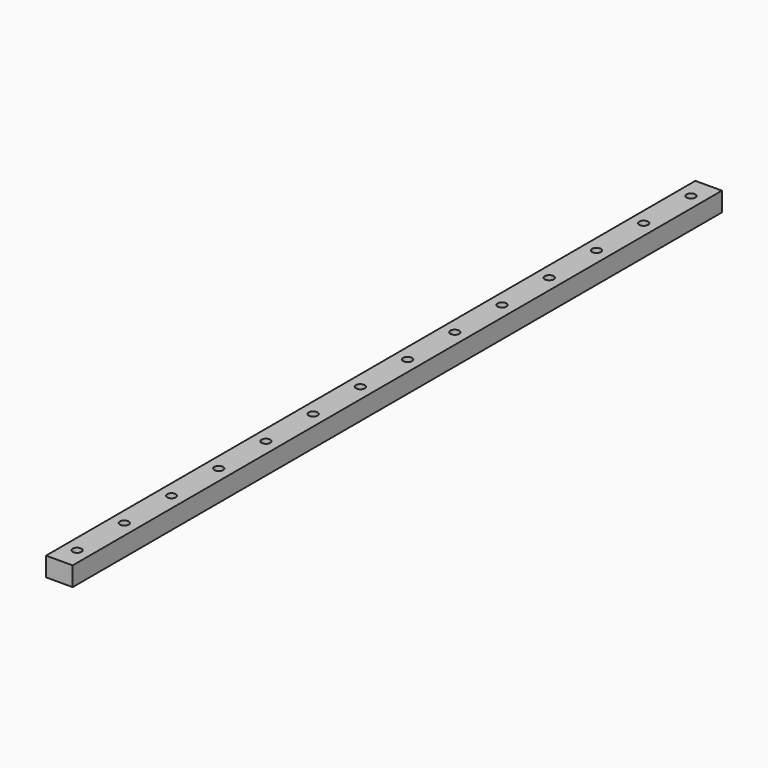
from build123d import *

# Parameters (mm, degrees)
SKETCH042_W            = 9
SKETCH042_H            = 275
PAD016_DEPTH           = 6.5
SKETCH043_R            = 1.5
POCKET028_DEPTH        = 6.5
LINEARPATTERN007_COUNT = 14
LINEARPATTERN007_PITCH = 20


with BuildPart() as part:
    # Sketch042 → Pad016 (new body)
    with BuildSketch(Plane.XY):
        with Locations((-4.5, 137.5)):
            Rectangle(SKETCH042_W, SKETCH042_H)
    extrude(amount=PAD016_DEPTH)

    # Sketch043 (on Face6 of Pad016) → Pocket028 (cut)
    with BuildSketch(Plane.XY.offset(6.5)):
        with Locations((-4.5, 7.5)):
            Circle(SKETCH043_R)
    pocket028 = extrude(amount=-POCKET028_DEPTH, mode=Mode.SUBTRACT)

    # LinearPattern007: Pocket028 ×14
    with Locations(*[(0, i * LINEARPATTERN007_PITCH, 0) for i in range(1, LINEARPATTERN007_COUNT)]):
        add(pocket028, mode=Mode.SUBTRACT)


solid = part.part
